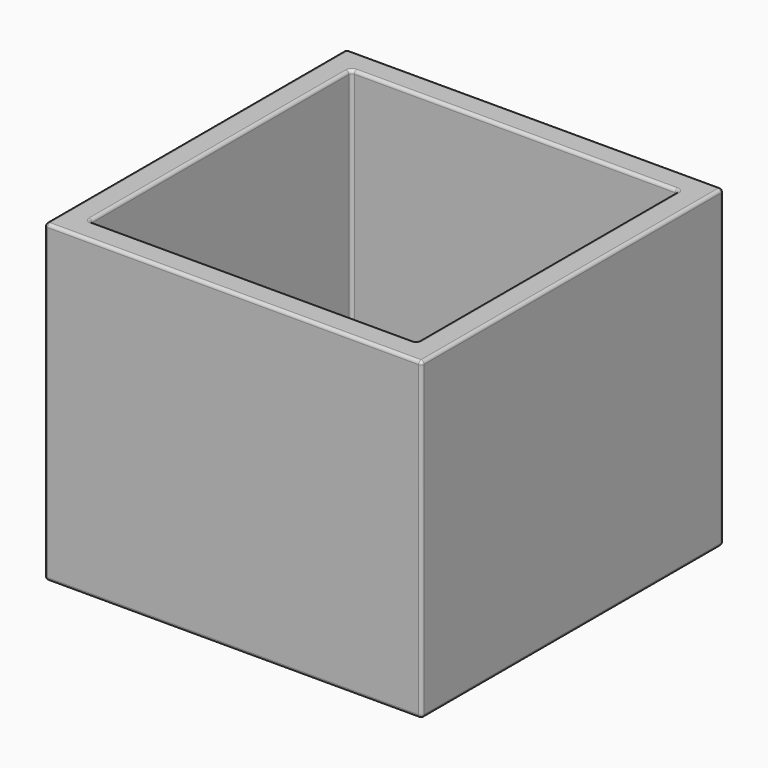
from build123d import *

# Parameters (mm, degrees)
F0_W     = 30
F0_H     = 30
F1_DEPTH = 25
F2_T     = -2
F3_R     = 0.25
F4_R     = 2.2673190991
F5_DEPTH = 25.001


with BuildPart() as f1:
    # F0 (on Top) → F1 (new body)
    with BuildSketch(Plane.XY):
        Rectangle(F0_W, F0_H)
    extrude(amount=F1_DEPTH)

    # F2
    f2_openings = [f1.faces().sort_by_distance(p)[0] for p in [
        (0, 0, 25),
    ]]
    offset(amount=F2_T, openings=f2_openings)

    # F3
    f3_edges = [f1.edges().sort_by_distance(p)[0] for p in [
        (0, 13, 25),
        (-13, 13, 13.5),
        (0, 13, 2),
        (13, 13, 13.5),
        (-13, 0, 25),
        (-13, -13, 13.5),
        (-13, 0, 2),
        (0, -13, 25),
        (13, -13, 13.5),
        (0, -13, 2),
        (13, 0, 25),
        (13, 0, 2),
        (0, -15, 0),
        (15, 0, 0),
        (0, 15, 0),
        (-15, 0, 0),
        (-15, -15, 12.5),
        (15, -15, 12.5),
        (0, -15, 25),
        (15, 15, 12.5),
        (-15, 15, 12.5),
        (0, 15, 25),
        (-15, 0, 25),
        (15, 0, 25),
    ]]
    fillet(f3_edges, radius=F3_R)

    # F4 (on face) → F5 (cut, through all)
    with BuildSketch(Plane(origin=(0, 0, 0), x_dir=(1, 0, 0), z_dir=(0, 0, -1))):
        Circle(F4_R)
    extrude(amount=-F5_DEPTH, mode=Mode.SUBTRACT)


solid = f1.part
